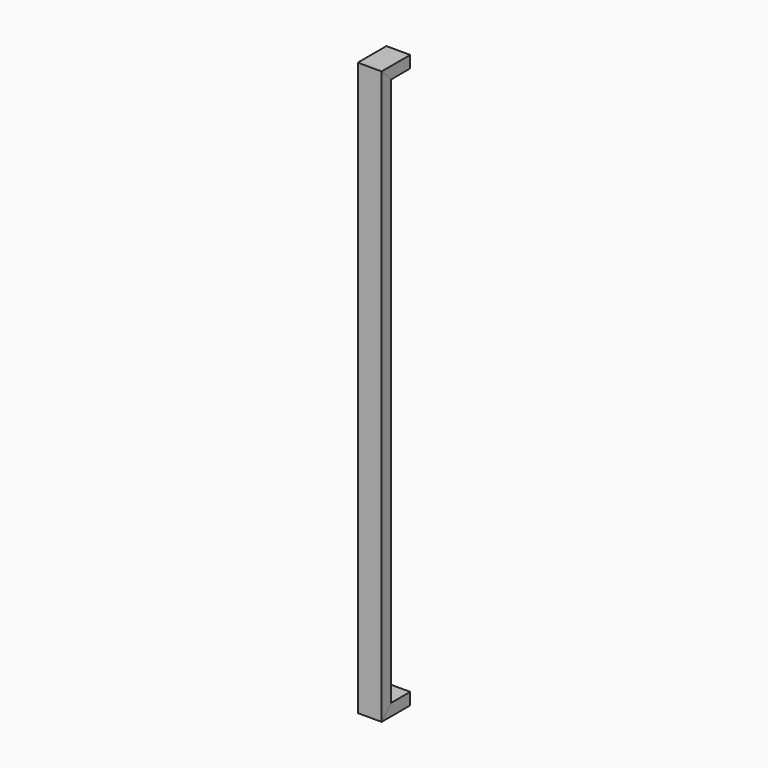
from build123d import *

# Parameters (mm, degrees)
F0_W     = 25.4
F0_H     = 12.7
F1_DEPTH = 12.7
F2_DEPTH = 12.7


with BuildPart() as f1:
    # F0 (on Right) → F1 (new body, symmetric)
    with BuildSketch(Plane.YZ):
        with Locations((0, 298.45)):
            Rectangle(F0_W, F0_H)
        Polygon((-25.4, 304.8), (-12.7, 292.1), (-12.7, 304.8), align=None)
        with Locations((0, -298.45)):
            Rectangle(F0_W, F0_H)
        Polygon((-12.7, -304.8), (-12.7, -292.1), (-25.4, -304.8), align=None)
    extrude(amount=F1_DEPTH, both=True)


with BuildPart() as f2:
    # F0 (on Right) → F2 (new body, symmetric)
    with BuildSketch(Plane.YZ):
        Polygon((-12.7, -292.1), (-12.7, 292.1), (-25.4, 304.8), (-25.4, -304.8), align=None)
    extrude(amount=F2_DEPTH, both=True)


solid = Compound([f1.part, f2.part])
